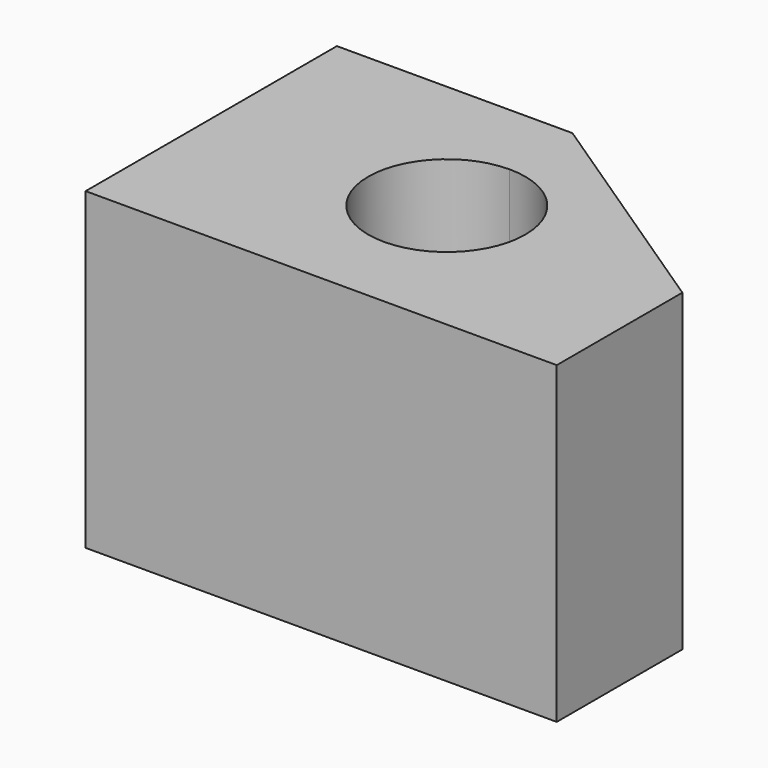
from build123d import *

# Parameters (mm, degrees)
F1_DEPTH = 50.8


with BuildPart() as f1:
    # F0 (on Top) → F1 (new body)
    with BuildSketch(Plane.XY):
        with BuildLine():
            Line((38.1, 50.8), (0, 50.8))
            Line((0, 50.8), (0, 0))
            Line((0, 0), (38.1, 0))
            Line((38.1, 0), (38.1, 12.7))
            ThreePointArc((38.1, 12.7), (25.4, 25.4), (38.1, 38.1))
            Line((38.1, 38.1), (38.1, 50.8))
        make_face()
        with BuildLine():
            Line((76.2, 25.4), (38.1, 50.8))
            Line((38.1, 50.8), (38.1, 38.1))
            ThreePointArc((38.1, 38.1), (47.080256, 34.380256), (50.8, 25.4))
            Line((50.8, 25.4), (76.2, 25.4))
        make_face()
        with BuildLine():
            Line((76.2, 0), (76.2, 25.4))
            Line((76.2, 25.4), (50.8, 25.4))
            ThreePointArc((50.8, 25.4), (47.080256, 16.419744), (38.1, 12.7))
            Line((38.1, 12.7), (38.1, 0))
            Line((38.1, 0), (76.2, 0))
        make_face()
    extrude(amount=F1_DEPTH)


solid = f1.part
